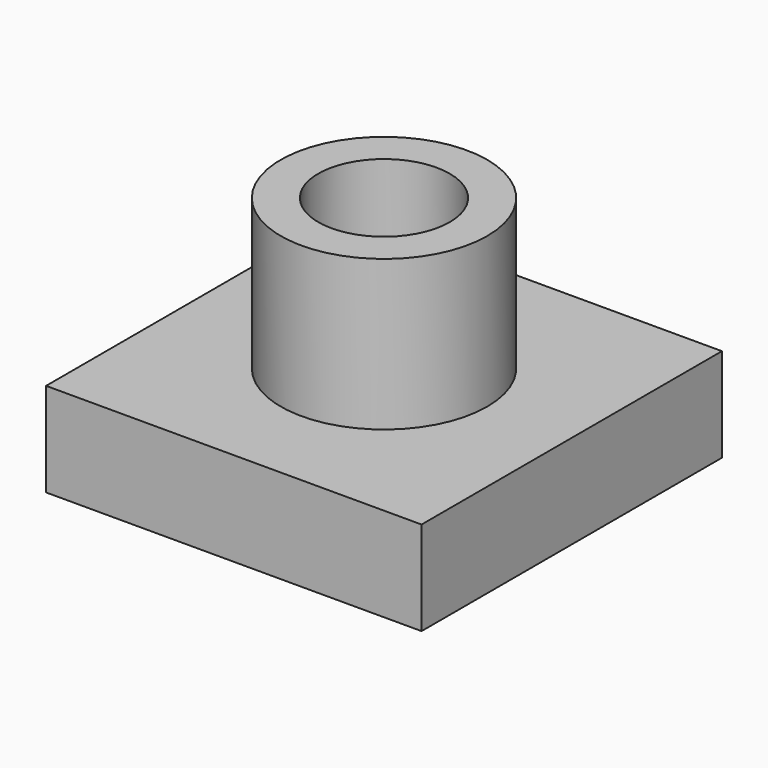
from build123d import *

# Parameters (mm, degrees)
SKETCH_W          = 40
SKETCH_H          = 40
EXTRUDE_DEPTH     = 10
CYLINDER001_R     = 7
CYLINDER001_DEPTH = 19
CYLINDER_R        = 11
CYLINDER_DEPTH    = 16


with BuildPart() as extrude_body:
    # Sketch → Extrude (new body)
    with BuildSketch(Plane.XY):
        with Locations((20, 20)):
            Rectangle(SKETCH_W, SKETCH_H)
    extrude(amount=EXTRUDE_DEPTH)


with BuildPart() as cylinder001:
    # Cylinder001 → Cylinder001 (new body)
    with BuildSketch(Plane(origin=(20, 20, 13), x_dir=(1, 0, 0), z_dir=(0, 0, 1))):
        Circle(CYLINDER001_R)
    extrude(amount=CYLINDER001_DEPTH)


with BuildPart() as cut:
    # Cylinder → Cylinder (new body)
    with BuildSketch(Plane(origin=(20, 20, 10), x_dir=(1, 0, 0), z_dir=(0, 0, 1))):
        Circle(CYLINDER_R)
    extrude(amount=CYLINDER_DEPTH)

    # Cut: cut Cylinder001
    add(cylinder001.part, mode=Mode.SUBTRACT)


solid = Compound([extrude_body.part, cut.part])
